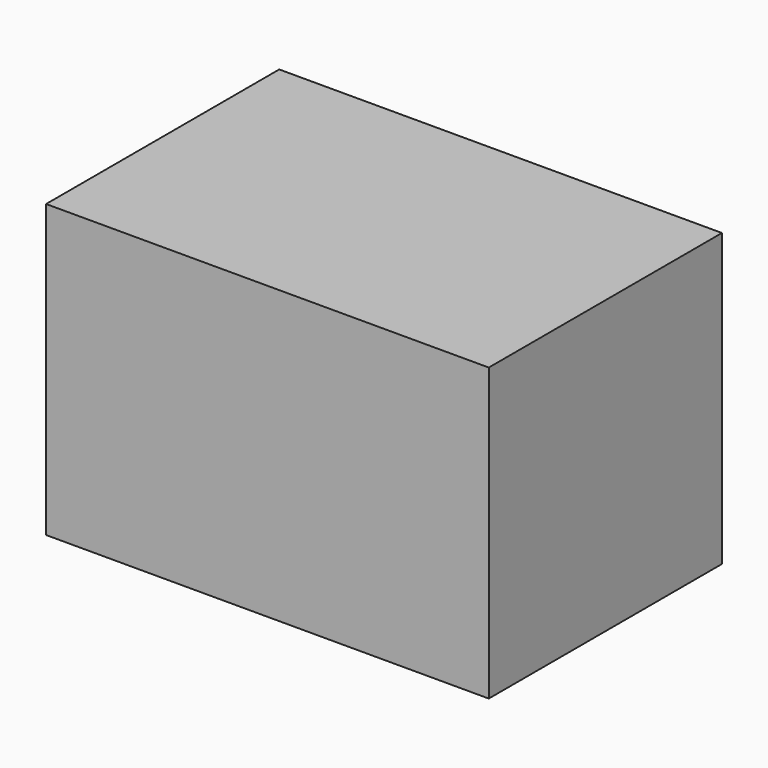
from build123d import *

# Parameters (mm, degrees)
F1_W     = 151.912644
F1_H     = 100
F2_DEPTH = 100


with BuildPart() as f2:
    # F1 (on face) → F2 (new body)
    with BuildSketch(Plane.XY):
        Rectangle(F1_W, F1_H)
    extrude(amount=F2_DEPTH)


solid = f2.part
